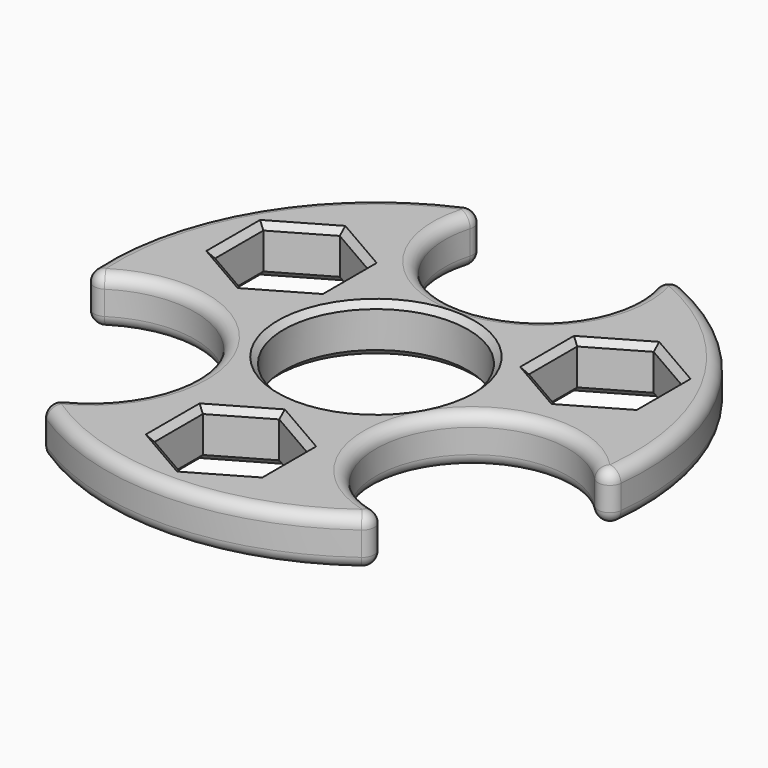
from build123d import *

# Parameters (mm, degrees)
F0_R     = 15.35
F1_DEPTH = 8
F2_R     = 2
F3_SIZE  = 1


with BuildPart() as f1:
    # F0 (on Top) → F1 (new body)
    with BuildSketch(Plane.XY):
        with BuildLine():
            ThreePointArc((-44.55284, -6.328067), (-17.472063, -10.0875), (-27.756687, -35.419858))
            ThreePointArc((-27.756687, -35.419858), (1.735658, -44.966515), (30.40437, -33.174904))
            ThreePointArc((30.40437, -33.174904), (15.913217, -9.1875), (43.932495, -9.743505))
            ThreePointArc((43.932495, -9.743505), (38.971143, 22.5), (13.528125, 42.918409))
            ThreePointArc((13.528125, 42.918409), (0, 18.375), (-13.528125, 42.918409))
            ThreePointArc((-13.528125, 42.918409), (-38.074315, 23.986382), (-44.55284, -6.328067))
        make_face()
        Polygon((-8.703555, -25.15), (0, -20.125), (8.703555, -25.15), (8.703555, -35.2), (0, -40.225), (-8.703555, -35.2), align=None, mode=Mode.SUBTRACT)
        Polygon((-17.428761, 20.1125), (-17.428761, 10.0625), (-26.132317, 5.0375), (-34.835872, 10.0625), (-34.835872, 20.1125), (-26.132317, 25.1375), align=None, mode=Mode.SUBTRACT)
        Circle(F0_R, mode=Mode.SUBTRACT)
        Polygon((26.132317, 5.0375), (17.428761, 10.0625), (17.428761, 20.1125), (26.132317, 25.1375), (34.835872, 20.1125), (34.835872, 10.0625), align=None, mode=Mode.SUBTRACT)
    extrude(amount=F1_DEPTH)

    # F2
    f2_edges = [f1.edges().sort_by_distance(p)[0] for p in [
        (0, 18.375, 8),
        (0, 18.375, 0),
        (-38.074315, 23.986382, 0),
        (-38.074315, 23.986382, 8),
        (-13.528125, 42.918409, 4),
        (13.528125, 42.918409, 4),
        (-17.472063, -10.0875, 8),
        (-17.472063, -10.0875, 0),
        (15.913217, -9.1875, 8),
        (15.913217, -9.1875, 0),
        (38.971143, 22.5, 8),
        (1.735658, -44.966515, 8),
        (43.932495, -9.743505, 4),
        (30.40437, -33.174904, 4),
        (-44.55284, -6.328067, 4),
        (-27.756687, -35.419858, 4),
        (1.735658, -44.966515, 0),
        (38.971143, 22.5, 0),
    ]]
    fillet(f2_edges, radius=F2_R)

    # F3
    f3_edges = [f1.edges().sort_by_distance(p)[0] for p in [
        (-34.835872, 15.0875, 0),
        (-30.484094, 22.625, 0),
        (-21.780539, 22.625, 0),
        (-17.428761, 15.0875, 0),
        (-15.35, 0, 0),
        (-15.35, 0, 8),
        (-21.780539, 7.55, 0),
        (-30.484094, 7.55, 0),
        (21.780539, 22.625, 0),
        (17.428761, 15.0875, 0),
        (21.780539, 7.55, 0),
        (30.484094, 7.55, 0),
        (34.835872, 15.0875, 0),
        (34.835872, 15.0875, 8),
        (30.484094, 22.625, 8),
        (30.484094, 22.625, 0),
        (-21.780539, 22.625, 8),
        (-17.428761, 15.0875, 8),
        (-4.351778, -37.7125, 0),
        (4.351778, -37.7125, 0),
        (8.703555, -30.175, 0),
        (8.703555, -30.175, 8),
        (4.351778, -22.6375, 8),
        (4.351778, -22.6375, 0),
        (-4.351778, -22.6375, 0),
        (-8.703555, -30.175, 0),
        (21.780539, 22.625, 8),
        (17.428761, 15.0875, 8),
        (21.780539, 7.55, 8),
        (30.484094, 7.55, 8),
        (-30.484094, 22.625, 8),
        (-34.835872, 15.0875, 8),
        (-30.484094, 7.55, 8),
        (-21.780539, 7.55, 8),
        (-4.351778, -22.6375, 8),
        (-8.703555, -30.175, 8),
        (-4.351778, -37.7125, 8),
        (4.351778, -37.7125, 8),
    ]]
    chamfer(f3_edges, length=F3_SIZE)


solid = f1.part
